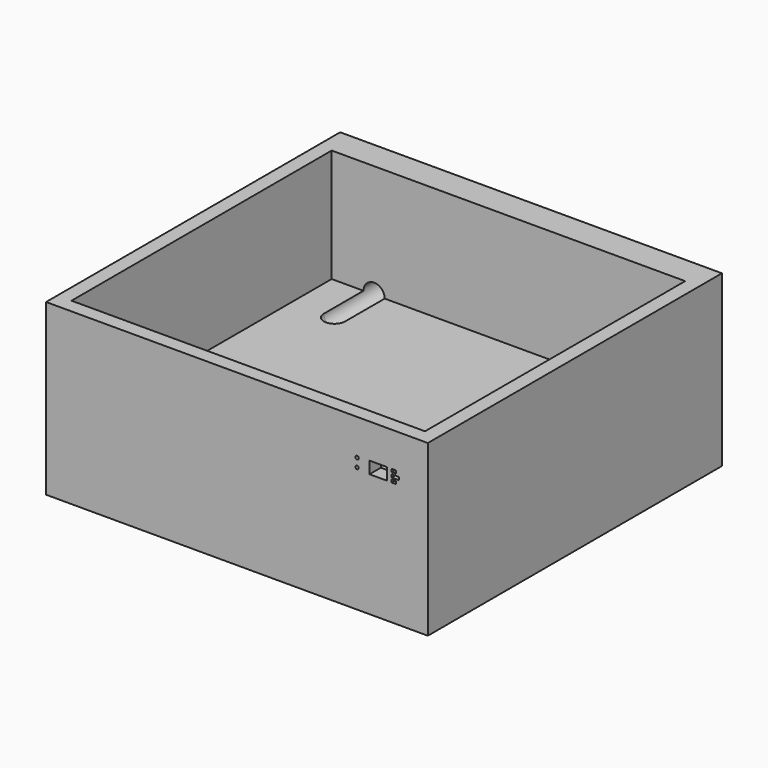
from build123d import *

# Parameters (mm, degrees)
F0_W     = 342.9
F0_H     = 330.2
F1_DEPTH = 152.4
F2_W     = 317.5
F2_H     = 292.1
F3_DEPTH = 101.6
F4_R     = 9.525
F5_DEPTH = 69.85
F8_R     = 1.499997
F8_W     = 15.6979995019
F8_H     = 10.7923728456
F8_W_2   = 3.7969946861
F8_H_2   = 2.5979578495
F8_W_3   = 6.4112246037
F9_DEPTH = 25.4


with BuildPart() as f1:
    # F0 (on Top) → F1 (new body)
    with BuildSketch(Plane.XY):
        Rectangle(F0_W, F0_H)
    extrude(amount=F1_DEPTH)

    # F2 (on face) → F3 (cut)
    with BuildSketch(Plane.XY.offset(152.4)):
        with Locations((0, -6.35)):
            Rectangle(F2_W, F2_H)
    extrude(amount=-F3_DEPTH, mode=Mode.SUBTRACT)

    # F4 (on face) → F5 (cut, symmetric)
    with BuildSketch(Plane(origin=(0, 165.1, 0), x_dir=(-1, 0, 0), z_dir=(0, 1, 0))):
        with Locations((120.65, 50.8)):
            Circle(F4_R)
    extrude(amount=F5_DEPTH, both=True, mode=Mode.SUBTRACT)

    # F6 (on face) → F7 (revolve, cut)
    with BuildSketch(Plane.XY.offset(50.8)):
        with BuildLine():
            Line((-111.125, 95.25), (-130.175, 95.25))
            ThreePointArc((-130.175, 95.25), (-120.65, 85.725), (-111.125, 95.25))
        make_face()
    revolve(axis=Axis((-120.65, 95.25, 50.8), (1, 0, 0)), mode=Mode.SUBTRACT)

    # F8 (on face) → F9 (cut)
    with BuildSketch(Plane(origin=(0, -152.4, 0), x_dir=(-1, 0, 0), z_dir=(0, 1, 0))):
        with Locations((-107.869675722, 112.4142541665)):
            Circle(F8_R)
        with Locations((-107.9261657216, 120.1482748716)):
            Circle(F8_R)
        with Locations((-126.9230991602, 116.0683184862)):
            Rectangle(F8_W, F8_H)
        with Locations((-140.8484578133, 120.1762259007)):
            Rectangle(F8_W_2, F8_H_2)
        with Locations((-142.2262191772, 115.8662810922)):
            Rectangle(F8_W_3, F8_H_2)
        with Locations((-140.8484429121, 111.8389591575)):
            Rectangle(F8_W_2, F8_H_2)
    extrude(amount=-F9_DEPTH, mode=Mode.SUBTRACT)


solid = f1.part
